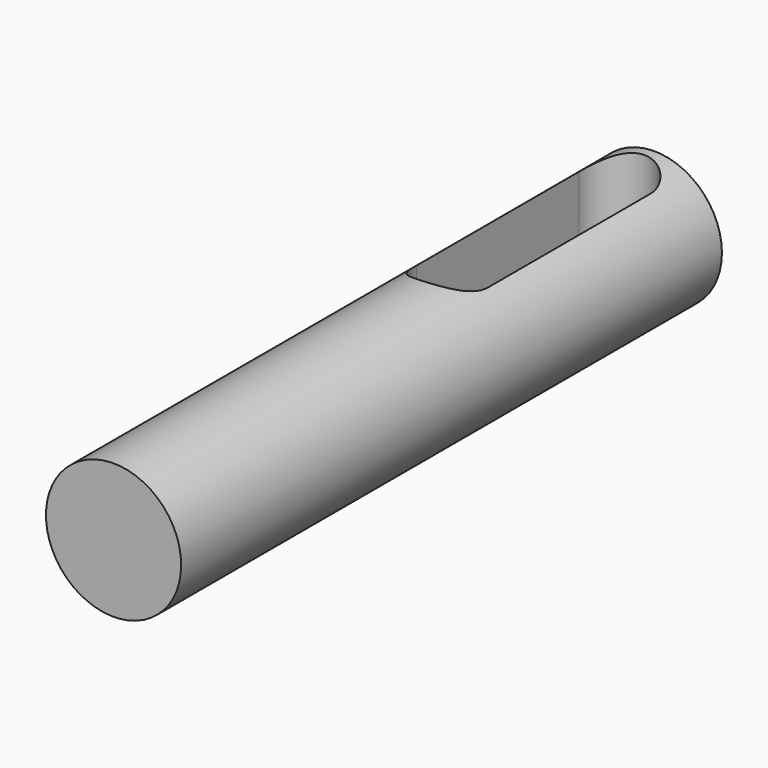
from build123d import *

# Parameters (mm, degrees)
F0_R     = 12.7
F1_DEPTH = 127
F3_DEPTH = 12.7


with BuildPart() as f1:
    # F0 (on Front) → F1 (new body)
    with BuildSketch(Plane.XZ):
        Circle(F0_R)
    extrude(amount=F1_DEPTH)

    # F2 (on Top) → F3 (cut, symmetric)
    with BuildSketch(Plane.XY):
        with BuildLine():
            ThreePointArc((6.120889, -8.56995), (-0.59676, -1.8523), (-7.31441, -8.56995))
            Line((-7.31441, -8.56995), (-7.31441, -46.708863))
            ThreePointArc((-7.31441, -46.708863), (-0.59676, -53.426513), (6.120889, -46.708863))
            Line((6.120889, -46.708863), (6.120889, -8.56995))
        make_face()
    extrude(amount=F3_DEPTH, both=True, mode=Mode.SUBTRACT)


solid = f1.part
